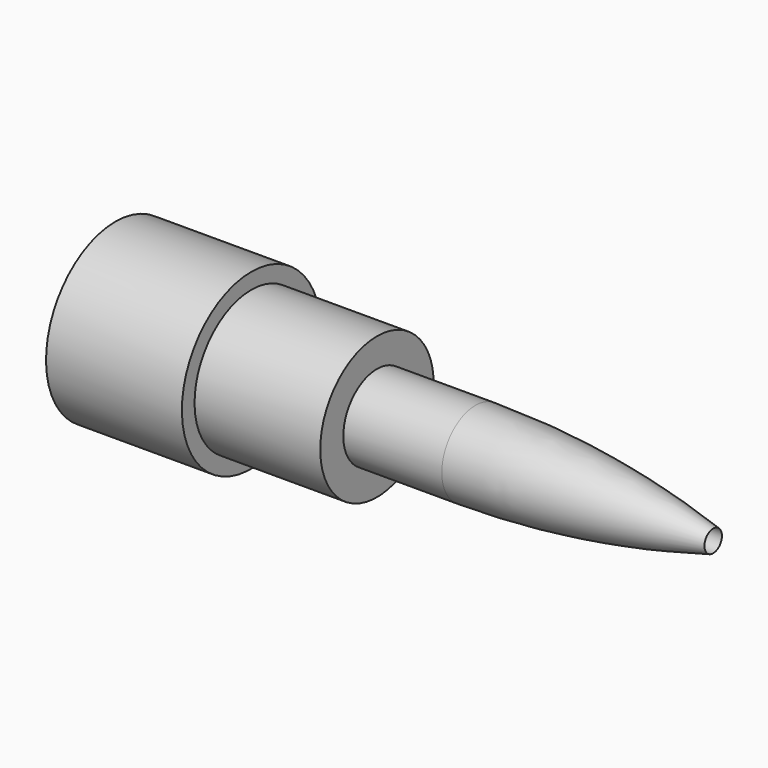
from build123d import *

# Parameters (mm, degrees)
F0_W = 36.8274030861
F0_H = 10.7945081846


with BuildPart() as f1:
    # F0 (on Front) → F1 (revolve)
    with BuildSketch(Plane.XZ):
        Polygon((-57.4059124522, 23.979076107), (-57.4059124522, 34.7735842916), (-57.4059124522, 40.6999844616), (-108.2059124522, 40.6999844616), (-108.2059124522, 23.979076107), align=None)
        Polygon((-10.4149084185, 34.7735842916), (-57.4059124522, 34.7735842916), (-57.4059124522, 23.979076107), (-57.4059124522, 19.1109652582), (-57.4059124522, 13.1845679224), (-10.4149084185, 13.1845679224), (-10.4149084185, 23.979076107), align=None)
        with Locations((7.9987931245, 18.5818220147)):
            Rectangle(F0_W, F0_H)
        with BuildLine():
            ThreePointArc((115.3084632069, 12.3379408113), (71.2399674201, 21.0564213669), (26.4124946676, 23.979076107))
            Line((26.4124946676, 23.979076107), (26.4124946676, 13.1845679224))
            Line((26.4124946676, 13.1845679224), (115.3084632069, 12.3379408113))
        make_face()
        Polygon((-57.4059124522, 13.1845679224), (-57.4059124522, 19.1109652582), (-63.7560480048, 13.1845679224), align=None)
    revolve(axis=Axis((3.0973404646, 0, 8.2526686112), (-1, 0, 0)))


solid = f1.part
